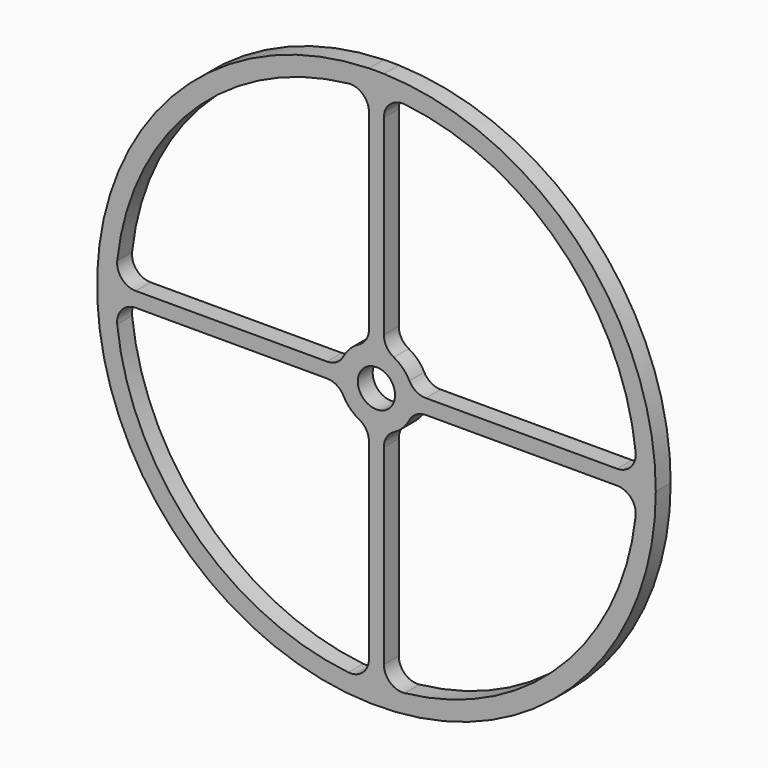
from build123d import *

# Parameters (mm, degrees)
F0_R     = 5
F1_DEPTH = 2.5


with BuildPart() as f1:
    # F0 (on Front) → F1 (new body, symmetric)
    with BuildSketch(Plane.XZ):
        with BuildLine():
            ThreePointArc((-2, 74.973329), (-52.321124, -53.735463), (75, 0))
            ThreePointArc((75, 0), (53.735463, 52.321124), (2, 74.973329))
            ThreePointArc((2, 74.973329), (0, 75), (-2, 74.973329))
        make_face()
        with BuildLine():
            ThreePointArc((-69.592899, -7.538462), (-68.34302, -3.660263), (-64.621978, -2))
            Line((-64.621978, -2), (-13.266499, -2))
            ThreePointArc((-13.266499, -2), (-10.68451, -2.718256), (-8.844333, -4.666667))
            ThreePointArc((-8.844333, -4.666667), (-7.071068, -7.071068), (-4.666667, -8.844333))
            ThreePointArc((-4.666667, -8.844333), (-2.718256, -10.68451), (-2, -13.266499))
            Line((-2, -13.266499), (-2, -64.621978))
            ThreePointArc((-2, -64.621978), (-3.660263, -68.34302), (-7.538462, -69.592899))
            ThreePointArc((-7.538462, -69.592899), (-49.497475, -49.497475), (-69.592899, -7.538462))
        make_face(mode=Mode.SUBTRACT)
        with BuildLine():
            ThreePointArc((7.538462, -69.592899), (3.660263, -68.34302), (2, -64.621978))
            Line((2, -64.621978), (2, -13.266499))
            ThreePointArc((2, -13.266499), (2.718256, -10.68451), (4.666667, -8.844333))
            ThreePointArc((4.666667, -8.844333), (7.071068, -7.071068), (8.844333, -4.666667))
            ThreePointArc((8.844333, -4.666667), (10.68451, -2.718256), (13.266499, -2))
            Line((13.266499, -2), (64.621978, -2))
            ThreePointArc((64.621978, -2), (68.34302, -3.660263), (69.592899, -7.538462))
            ThreePointArc((69.592899, -7.538462), (49.497475, -49.497475), (7.538462, -69.592899))
        make_face(mode=Mode.SUBTRACT)
        with BuildLine():
            ThreePointArc((-2, 13.266499), (-2.718256, 10.68451), (-4.666667, 8.844333))
            ThreePointArc((-4.666667, 8.844333), (-7.071068, 7.071068), (-8.844333, 4.666667))
            ThreePointArc((-8.844333, 4.666667), (-10.68451, 2.718256), (-13.266499, 2))
            Line((-13.266499, 2), (-64.621978, 2))
            ThreePointArc((-64.621978, 2), (-68.34302, 3.660263), (-69.592899, 7.538462))
            ThreePointArc((-69.592899, 7.538462), (-49.497475, 49.497475), (-7.538462, 69.592899))
            ThreePointArc((-7.538462, 69.592899), (-3.660263, 68.34302), (-2, 64.621978))
            Line((-2, 64.621978), (-2, 13.266499))
        make_face(mode=Mode.SUBTRACT)
        Circle(F0_R, mode=Mode.SUBTRACT)
        with BuildLine():
            ThreePointArc((7.538462, 69.592899), (49.497475, 49.497475), (69.592899, 7.538462))
            ThreePointArc((69.592899, 7.538462), (68.34302, 3.660263), (64.621978, 2))
            Line((64.621978, 2), (13.266499, 2))
            ThreePointArc((13.266499, 2), (10.68451, 2.718256), (8.844333, 4.666667))
            ThreePointArc((8.844333, 4.666667), (7.071068, 7.071068), (4.666667, 8.844333))
            ThreePointArc((4.666667, 8.844333), (2.718256, 10.68451), (2, 13.266499))
            Line((2, 13.266499), (2, 64.621978))
            ThreePointArc((2, 64.621978), (3.660263, 68.34302), (7.538462, 69.592899))
        make_face(mode=Mode.SUBTRACT)
    extrude(amount=F1_DEPTH, both=True)


solid = f1.part
